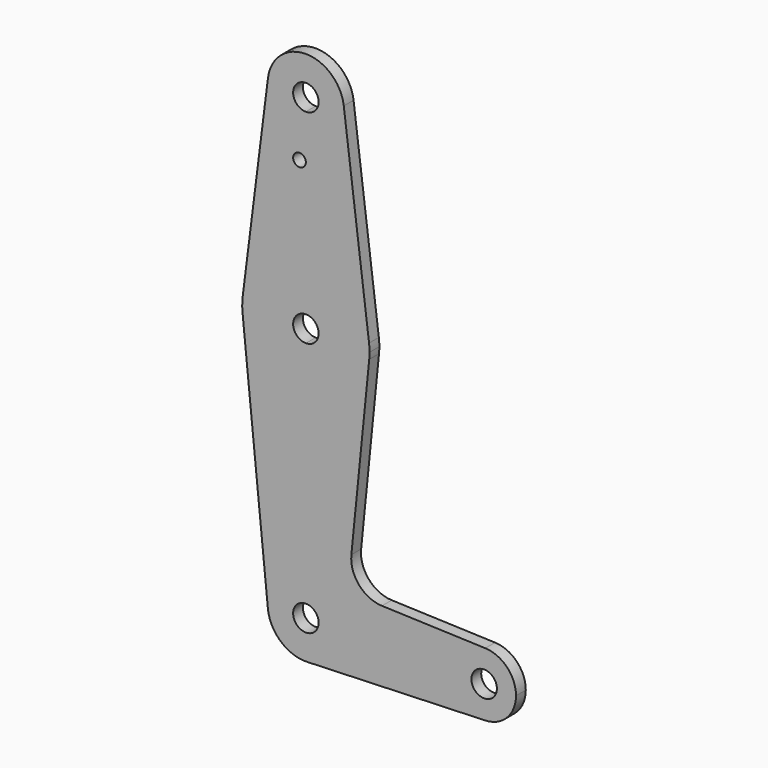
from build123d import *

# Parameters (mm, degrees)
F0_R     = 1.5875
F1_DEPTH = 3.048


with BuildPart() as f1:
    # F0 (on Front) → F1 (new body)
    with BuildSketch(Plane.XZ):
        with BuildLine():
            ThreePointArc((-15.7504882737, 1.984375), (-10.5003255158, 11.90625), (0, 15.875))
            Line((0, 15.875), (0, 36.5252))
            Line((0, 36.5252), (0, 41.275))
            ThreePointArc((0, 41.275), (-7.14375, 44.4998046905), (-9.4502929642, 51.990625))
            Line((-9.4502929642, 51.990625), (-15.7504882737, 1.984375))
        make_face()
        with Locations((-1.5875, 36.5252)):
            Circle(F0_R, mode=Mode.SUBTRACT)
        with BuildLine():
            Line((0, 36.5252), (0, 15.875))
            ThreePointArc((0, 15.875), (10.5003255158, 11.90625), (15.7504882737, 1.984375))
            Line((15.7504882737, 1.984375), (9.4502929642, 51.990625))
            ThreePointArc((9.4502929642, 51.990625), (9.5063048942, 51.396483242), (9.525, 50.8))
            ThreePointArc((9.525, 50.8), (6.7351920908, 44.0648079092), (0, 41.275))
            Line((0, 41.275), (0, 36.5252))
        make_face()
        with BuildLine():
            ThreePointArc((-9.4502929642, 51.990625), (-7.14375, 44.4998046905), (0, 41.275))
            ThreePointArc((0, 41.275), (6.7351920908, 44.0648079092), (9.525, 50.8))
            ThreePointArc((9.525, 50.8), (9.5063048942, 51.396483242), (9.4502929642, 51.990625))
            ThreePointArc((9.4502929642, 51.990625), (0, 60.325), (-9.4502929642, 51.990625))
        make_face()
        with BuildLine():
            ThreePointArc((3.175, 50.8), (2.2450640303, 48.5549359697), (0, 47.625))
            ThreePointArc((0, 47.625), (-2.2450640303, 53.0450640303), (3.175, 50.8))
        make_face(mode=Mode.SUBTRACT)
        with BuildLine():
            ThreePointArc((0, -3.175), (-3.175, 0), (0, 3.175))
            Line((0, 3.175), (0, 15.875))
            ThreePointArc((0, 15.875), (-10.5003255158, 11.90625), (-15.7504882737, 1.984375))
            ThreePointArc((-15.7504882737, 1.984375), (-15.8737438155, 0.1997054867), (-15.7954255641, -1.5875))
            ThreePointArc((-15.7954255641, -1.5875), (-10.6492737428, -11.7732150983), (0, -15.875))
            Line((0, -15.875), (0, -3.175))
        make_face()
        with BuildLine():
            ThreePointArc((15.7954255641, -1.5875), (10.6492737428, -11.7732150983), (0, -15.875))
            Line((0, -15.875), (0, -53.975))
            ThreePointArc((0, -53.975), (6.7351920908, -56.7648079092), (9.525, -63.5))
            Line((9.525, -63.5), (36.5125, -63.5))
            ThreePointArc((36.5125, -63.5), (38.9384772185, -57.7879930953), (44.7334821429, -55.5675637964))
            Line((44.7334821429, -55.5675637964), (18.9676000005, -54.6467662892))
            ThreePointArc((18.9676000005, -54.6467662892), (13.2611998974, -51.9286408502), (11.3411865923, -45.9066181876))
            Line((11.3411865923, -45.9066181876), (15.7954255641, -1.5875))
        make_face()
        with BuildLine():
            Line((0, -53.975), (0, -15.875))
            ThreePointArc((0, -15.875), (-10.6492737428, -11.7732150983), (-15.7954255641, -1.5875))
            Line((-15.7954255641, -1.5875), (-9.4772553384, -64.4525))
            ThreePointArc((-9.4772553384, -64.4525), (-7.063929059, -57.1104357543), (0, -53.975))
        make_face()
        with BuildLine():
            Line((0, 15.875), (0, 3.175))
            ThreePointArc((0, 3.175), (2.2450640303, 2.2450640303), (3.175, 0))
            ThreePointArc((3.175, 0), (2.2450640303, -2.2450640303), (0, -3.175))
            Line((0, -3.175), (0, -15.875))
            ThreePointArc((0, -15.875), (10.6492737428, -11.7732150983), (15.7954255641, -1.5875))
            ThreePointArc((15.7954255641, -1.5875), (15.8550939106, -0.7947465541), (15.875, 0))
            ThreePointArc((15.875, 0), (15.8438414904, 0.9941387366), (15.7504882737, 1.984375))
            ThreePointArc((15.7504882737, 1.984375), (10.5003255158, 11.90625), (0, 15.875))
        make_face()
        with BuildLine():
            Line((36.5125, -63.5), (9.525, -63.5))
            ThreePointArc((9.525, -63.5), (6.8544082857, -70.1138273378), (0.3401785714, -73.0189234444))
            Line((0.3401785714, -73.0189234444), (44.7334821429, -71.4324362036))
            ThreePointArc((44.7334821429, -71.4324362036), (38.9384772185, -69.2120069047), (36.5125, -63.5))
        make_face()
        with BuildLine():
            Line((0, -60.325), (0, -53.975))
            ThreePointArc((0, -53.975), (-7.063929059, -57.1104357543), (-9.4772553384, -64.4525))
            ThreePointArc((-9.4772553384, -64.4525), (-6.2623833816, -70.6769199091), (0.3401785714, -73.0189234444))
            ThreePointArc((0.3401785714, -73.0189234444), (6.8544082857, -70.1138273378), (9.525, -63.5))
            Line((9.525, -63.5), (3.175, -63.5))
            ThreePointArc((3.175, -63.5), (-2.2450640303, -65.7450640303), (0, -60.325))
        make_face()
        with BuildLine():
            ThreePointArc((9.525, -63.5), (6.7351920908, -56.7648079092), (0, -53.975))
            Line((0, -53.975), (0, -60.325))
            ThreePointArc((0, -60.325), (2.2450640303, -61.2549359697), (3.175, -63.5))
            Line((3.175, -63.5), (9.525, -63.5))
        make_face()
        with BuildLine():
            ThreePointArc((44.7334821429, -55.5675637964), (38.9384772185, -57.7879930953), (36.5125, -63.5))
            ThreePointArc((36.5125, -63.5), (38.9384772185, -69.2120069047), (44.7334821429, -71.4324362036))
            ThreePointArc((44.7334821429, -71.4324362036), (50.1620069047, -69.0115227815), (52.3875, -63.5))
            ThreePointArc((52.3875, -63.5), (50.1620069047, -57.9884772185), (44.7334821429, -55.5675637964))
        make_face()
        with BuildLine():
            ThreePointArc((47.625, -63.5), (44.45, -66.675), (41.275, -63.5))
            ThreePointArc((41.275, -63.5), (44.45, -60.325), (47.625, -63.5))
        make_face(mode=Mode.SUBTRACT)
    extrude(amount=F1_DEPTH)


solid = f1.part
